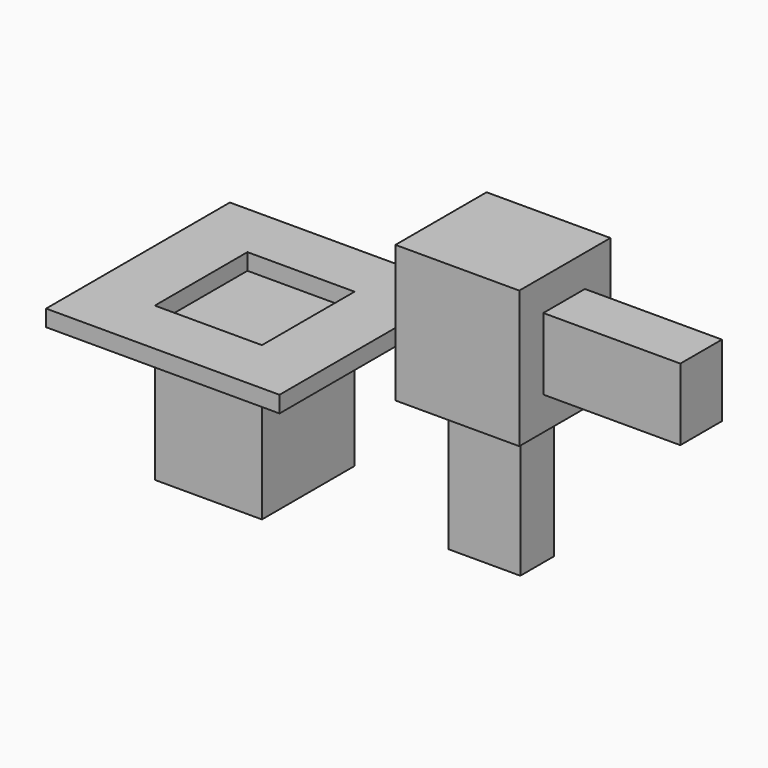
from build123d import *

# Parameters (mm, degrees)
F0_W     = 19.5462685078
F0_H     = 21.128050983
F1_DEPTH = 25
F2_W     = 42.595051229
F2_H     = 41.9171489775
F2_W_2   = 19.5462685078
F2_H_2   = 21.128050983
F3_DEPTH = 3
F2_W_3   = 22.5968435407
F2_H_3   = 20.7890970632
F4_DEPTH = 25
F5_W     = 13.1061673164
F5_H     = 7.6829269528
F6_DEPTH = 25
F7_W     = 9.4906743616
F7_H     = 13.1061673164
F8_DEPTH = 25


with BuildPart() as f1:
    # F0 (on Top) → F1 (new body)
    with BuildSketch(Plane.XY):
        Rectangle(F0_W, F0_H)
    extrude(amount=F1_DEPTH)


with BuildPart() as f3:
    # F2 (on face) → F3 (new body)
    with BuildSketch(Plane.XY.offset(25)):
        Rectangle(F2_W, F2_H)
        Rectangle(F2_W_2, F2_H_2, mode=Mode.SUBTRACT)
    extrude(amount=F3_DEPTH)


with BuildPart() as f4:
    # F2 (on face) → F4 (new body)
    with BuildSketch(Plane.XY.offset(25)):
        with Locations((42.9904945195, 2.8810976073)):
            Rectangle(F2_W_3, F2_H_3)
    extrude(amount=F4_DEPTH)

    # F5 (on face) → F6 (join)
    with BuildSketch(Plane(origin=(0, 0, 25), x_dir=(1, 0, 0), z_dir=(0, 0, -1))):
        with Locations((42.8210198879, -2.7116178535)):
            Rectangle(F5_W, F5_H)
    extrude(amount=F6_DEPTH)

    # F7 (on face) → F8 (join)
    with BuildSketch(Plane.YZ.offset(54.2889162898)):
        with Locations((2.7116178535, 37.623744458)):
            Rectangle(F7_W, F7_H)
    extrude(amount=F8_DEPTH)


solid = Compound([f1.part, f3.part, f4.part])
